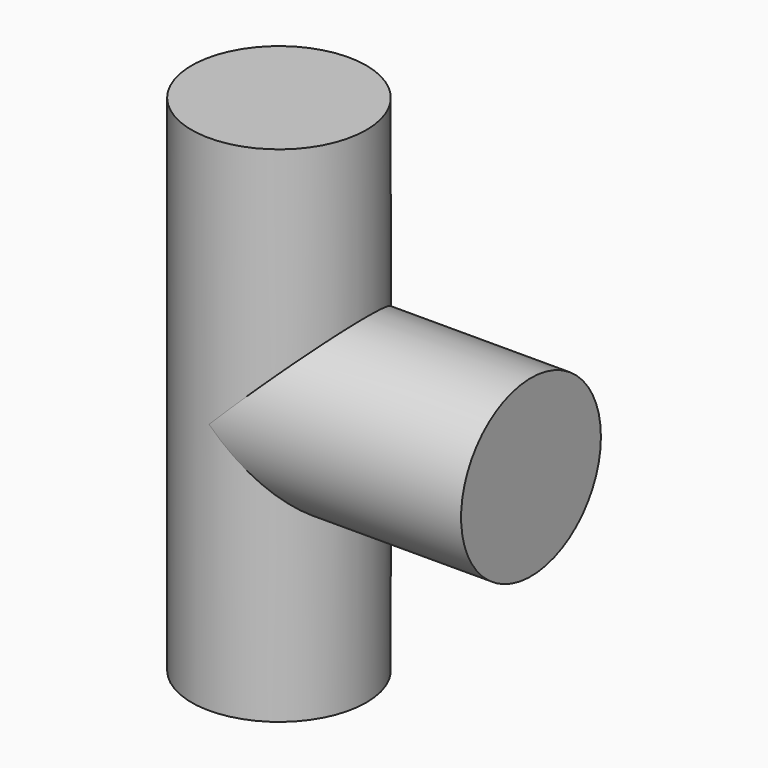
from build123d import *

# Parameters (mm, degrees)
F0_R     = 52
F1_DEPTH = 150
F2_R     = 52
F3_DEPTH = 150


with BuildPart() as f1:
    # F0 (on Top) → F1 (new body, symmetric)
    with BuildSketch(Plane.XY):
        Circle(F0_R)
    extrude(amount=F1_DEPTH, both=True)

    # F2 (on Right) → F3 (join)
    with BuildSketch(Plane.YZ):
        Circle(F2_R)
    extrude(amount=F3_DEPTH)


solid = f1.part
